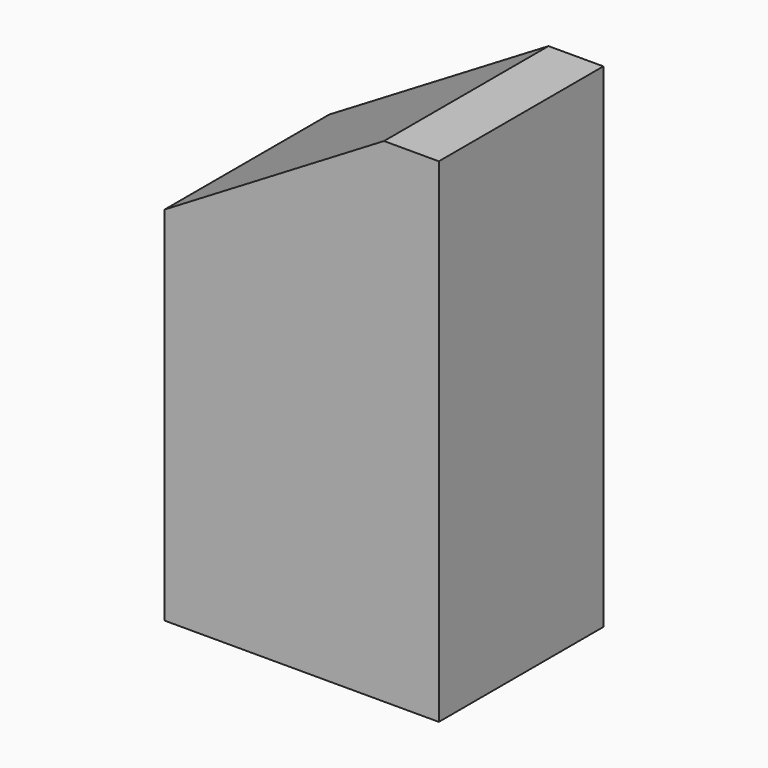
from build123d import *

# Parameters (mm, degrees)
SKETCH021_W     = 16
SKETCH021_H     = 16
PAD012_DEPTH    = 28.8
POCKET009_DEPTH = 16
PAD139_DEPTH    = 16
SKETCH192_W     = 16
SKETCH192_H     = 2
POCKET074_DEPTH = 30


with BuildPart() as part:
    # Sketch021 (on Face60 of Binder008) → Pad012 (new body)
    with BuildSketch(Plane.XY.offset(-28.8)):
        with Locations((-8, 64)):
            Rectangle(SKETCH021_W, SKETCH021_H)
    extrude(amount=PAD012_DEPTH)

    # Sketch022 (on Face3 of Pad012) → Pocket009 (cut)
    with BuildSketch(Plane.XZ.offset(-56)):
        Polygon((-16, -9.6), (0, 0), (-16, 0), align=None)
    extrude(amount=-POCKET009_DEPTH, mode=Mode.SUBTRACT)

    # Sketch139 (on Face6 of Pocket009) → Pad139 (join)
    with BuildSketch(Plane.XZ.offset(-56)):
        Polygon((0, 0), (-3.2, 0), (-16, -7.68), (-16, -10.88), (-3.2, -3.2), (0, -3.2), align=None)
    extrude(amount=-PAD139_DEPTH)

    # Sketch192 (on Face1 of Pad139) → Pocket074 (cut)
    with BuildSketch(Plane(origin=(0, 0, -28.8), x_dir=(1, 0, 0), z_dir=(0, 0, -1))):
        with Locations((-8, -57)):
            Rectangle(SKETCH192_W, SKETCH192_H)
        with Locations((-8, -71)):
            Rectangle(SKETCH192_W, SKETCH192_H)
    extrude(amount=-POCKET074_DEPTH, mode=Mode.SUBTRACT)


solid = part.part
